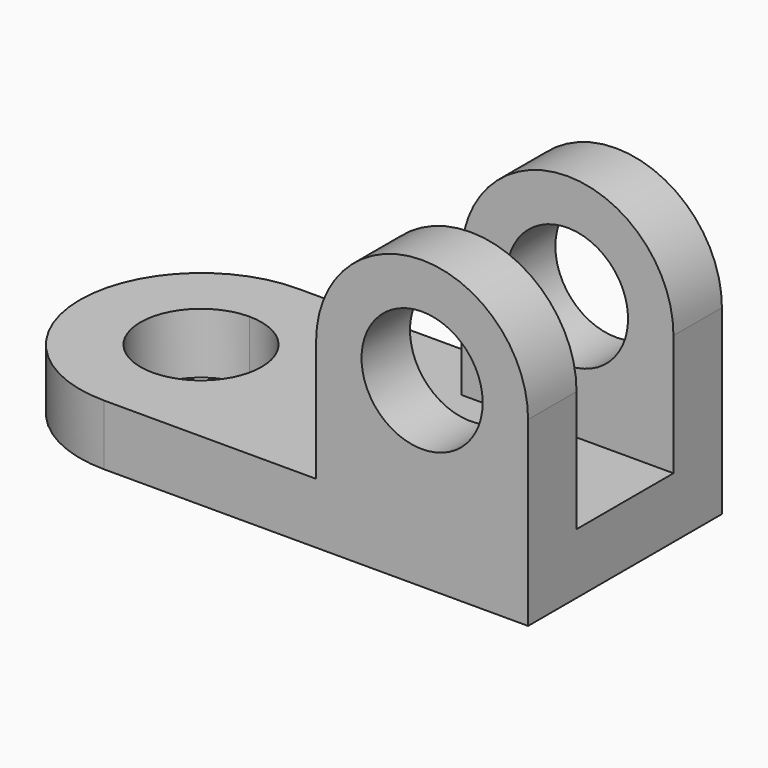
from build123d import *

# Parameters (mm, degrees)
F1_DEPTH  = 12.7
F2_DEPTH  = 12.7
F3_W      = 44.45
F3_H      = 12.7
F4_DEPTH  = 25.4
F6_DEPTH  = 12.7
F7_R      = 12.7
F8_DEPTH  = 25.4
F9_DEPTH  = 25.4
F11_DEPTH = 12.7
F12_R     = 12.7
F13_DEPTH = 25.4


with BuildPart() as f1:
    # F0 (on Top) → F1 (new body)
    with BuildSketch(Plane.XY):
        with BuildLine():
            ThreePointArc((-38.464964, 3.526151), (-63.864964, -21.873849), (-38.464964, -47.273849))
            Line((-38.464964, -47.273849), (-38.464964, -34.573849))
            ThreePointArc((-38.464964, -34.573849), (-51.164964, -21.873849), (-38.464964, -9.173849))
            Line((-38.464964, -9.173849), (-38.464964, 3.526151))
        make_face()
    extrude(amount=F1_DEPTH)

    # F0 (on Top) → F2 (join)
    with BuildSketch(Plane.XY):
        with BuildLine():
            Line((-38.464964, -47.273849), (50.435036, -47.273849))
            Line((50.435036, -47.273849), (50.435036, 3.526151))
            Line((50.435036, 3.526151), (-38.464964, 3.526151))
            Line((-38.464964, 3.526151), (-38.464964, -9.173849))
            ThreePointArc((-38.464964, -9.173849), (-29.484708, -12.893592), (-25.764964, -21.873849))
            ThreePointArc((-25.764964, -21.873849), (-29.484708, -30.854105), (-38.464964, -34.573849))
            Line((-38.464964, -34.573849), (-38.464964, -47.273849))
        make_face()
    extrude(amount=F2_DEPTH)

    # F3 (on face) → F4 (join)
    with BuildSketch(Plane.XY.offset(12.7)):
        with Locations((28.210036, -40.923849)):
            Rectangle(F3_W, F3_H)
    extrude(amount=F4_DEPTH)

    # F5 (on face) → F6 (join)
    with BuildSketch(Plane.XZ.offset(47.273849)):
        with BuildLine():
            Line((5.985036, 38.1), (50.435036, 38.1))
            ThreePointArc((50.435036, 38.1), (28.210036, 60.325), (5.985036, 38.1))
        make_face()
    extrude(amount=-F6_DEPTH)

    # F7 (on face) → F8 (cut)
    with BuildSketch(Plane.XZ.offset(47.273849)):
        with Locations((28.210036, 38.1)):
            Circle(F7_R)
    extrude(amount=-F8_DEPTH, mode=Mode.SUBTRACT)

    # F3 (on face) → F9 (join)
    with BuildSketch(Plane.XY.offset(12.7)):
        with Locations((28.210036, -2.823849)):
            Rectangle(F3_W, F3_H)
    extrude(amount=F9_DEPTH)

    # F10 (on face) → F11 (join)
    with BuildSketch(Plane(origin=(0, 3.526151, 0), x_dir=(-1, 0, 0), z_dir=(0, 1, 0))):
        with BuildLine():
            Line((-50.435036, 38.1), (-5.985036, 38.1))
            ThreePointArc((-5.985036, 38.1), (-28.210036, 60.325), (-50.435036, 38.1))
        make_face()
    extrude(amount=-F11_DEPTH)

    # F12 (on face) → F13 (cut)
    with BuildSketch(Plane(origin=(0, 3.526151, 0), x_dir=(-1, 0, 0), z_dir=(0, 1, 0))):
        with Locations((-28.210036, 38.1)):
            Circle(F12_R)
    extrude(amount=-F13_DEPTH, mode=Mode.SUBTRACT)


solid = f1.part
